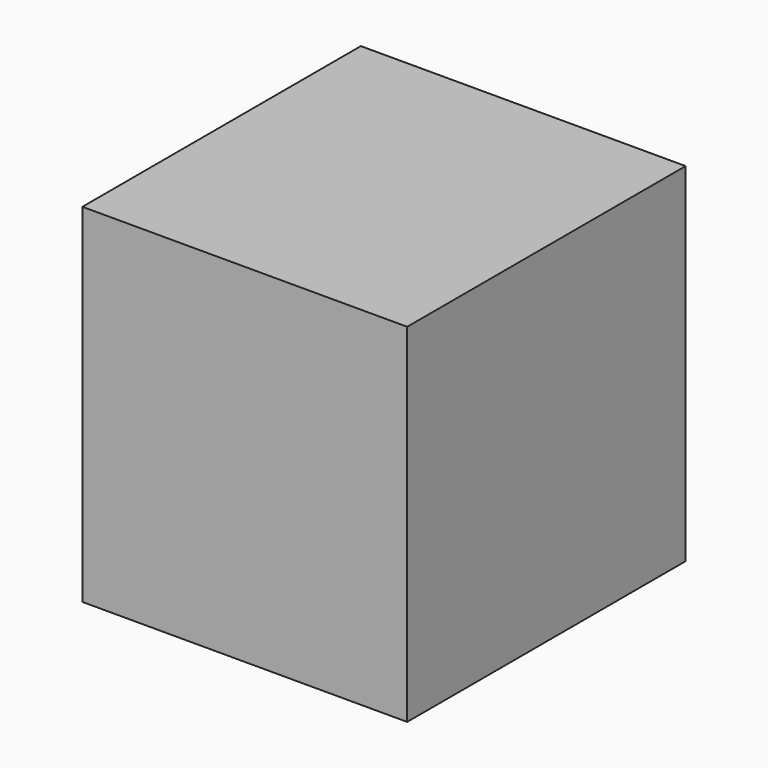
from build123d import *

# Parameters (mm, degrees)
F0_W     = 17.732204
F0_H     = 18.991634
F1_DEPTH = 19


with BuildPart() as f1:
    # F0 (on Front) → F1 (new body)
    with BuildSketch(Plane.XZ):
        Rectangle(F0_W, F0_H)
        Rectangle(F0_W, F0_H)
    extrude(amount=F1_DEPTH)


solid = f1.part
